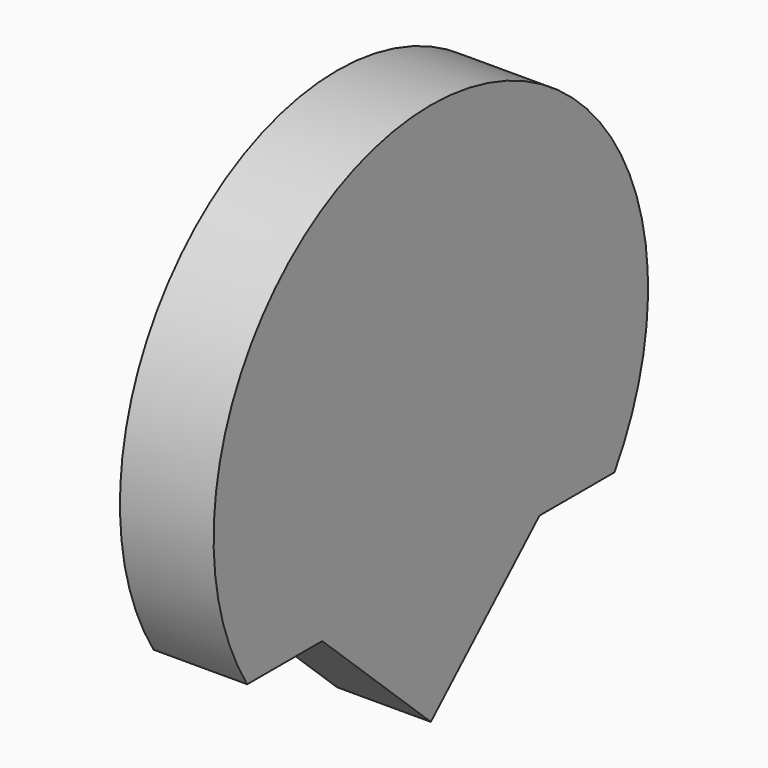
from build123d import *

# Parameters (mm, degrees)
PAD008_DEPTH = 6.9


with BuildPart() as part:
    # Sketch018 → Pad008 (new body)
    with BuildSketch(Plane.YZ.offset(37.9)):
        with BuildLine():
            ThreePointArc((216.953369, 20.01), (200.05, 50.7), (183.146631, 20.01))
            Line((183.146631, 20.01), (190.05, 20.01))
            Line((190.05, 20.01), (200.05, 10.7))
            Line((210.05, 20.01), (200.05, 10.7))
            Line((216.953369, 20.01), (210.05, 20.01))
        make_face()
    extrude(amount=PAD008_DEPTH)


solid = part.part
